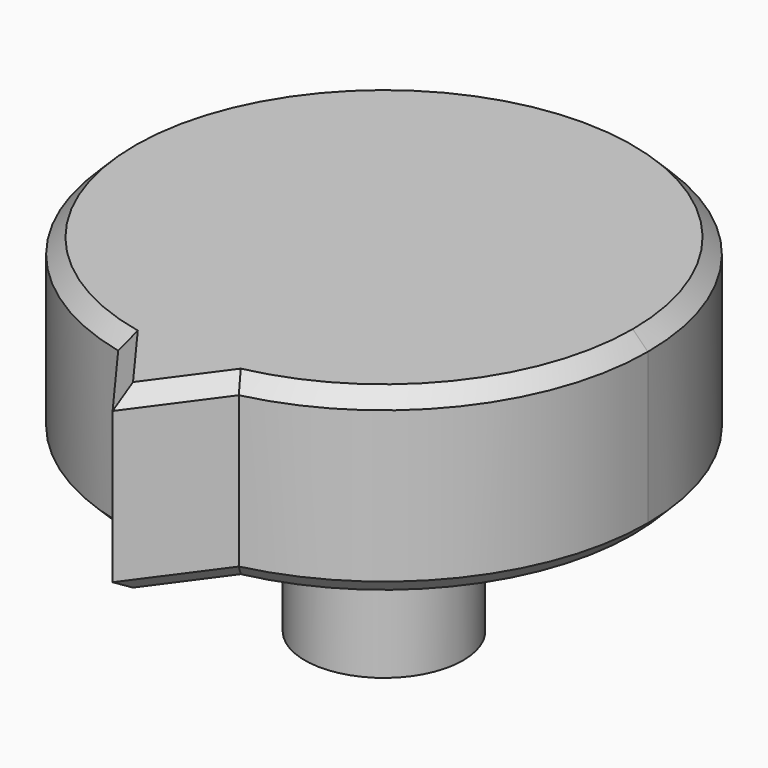
from build123d import *

# Parameters (mm, degrees)
F0_R     = 5.25
F1_DEPTH = 12
F2_DEPTH = 11
F3_DEPTH = 12
F4_SIZE  = 1
F5_SIZE  = 1


with BuildPart() as f1:
    # F0 (on Top) → F1 (new body)
    with BuildSketch(Plane.XY):
        with BuildLine():
            ThreePointArc((4, -17.036725), (13.715867, -10.868533), (17.5, 0))
            ThreePointArc((17.5, 0), (-10.868533, 13.715867), (-4, -17.036725))
            ThreePointArc((-4, -17.036725), (0, -17.5), (4, -17.036725))
        make_face()
        Circle(F0_R, mode=Mode.SUBTRACT)
        Circle(F0_R)
        with BuildLine():
            ThreePointArc((2.727178, 1.25), (2.931001, 0.639713), (3, 0))
            ThreePointArc((3, 0), (-0.639713, -2.931001), (-2.727178, 1.25))
            ThreePointArc((-2.727178, 1.25), (0, 3), (2.727178, 1.25))
        make_face(mode=Mode.SUBTRACT)
        with BuildLine():
            ThreePointArc((-2.727178, 1.25), (-0.639713, -2.931001), (3, 0))
            ThreePointArc((3, 0), (2.931001, 0.639713), (2.727178, 1.25))
            Line((2.727178, 1.25), (-2.727178, 1.25))
        make_face()
        with BuildLine():
            Line((-2.727178, 1.25), (2.727178, 1.25))
            ThreePointArc((2.727178, 1.25), (0, 3), (-2.727178, 1.25))
        make_face()
    extrude(amount=F1_DEPTH)

    # F0 (on Top) → F2 (join)
    with BuildSketch(Plane.XY):
        Circle(F0_R)
        with BuildLine():
            ThreePointArc((2.727178, 1.25), (2.931001, 0.639713), (3, 0))
            ThreePointArc((3, 0), (-0.639713, -2.931001), (-2.727178, 1.25))
            ThreePointArc((-2.727178, 1.25), (0, 3), (2.727178, 1.25))
        make_face(mode=Mode.SUBTRACT)
        with BuildLine():
            Line((-2.727178, 1.25), (2.727178, 1.25))
            ThreePointArc((2.727178, 1.25), (0, 3), (-2.727178, 1.25))
        make_face()
    extrude(amount=-F2_DEPTH)

    # F0 (on Top) → F3 (join)
    with BuildSketch(Plane.XY):
        with BuildLine():
            ThreePointArc((4, -17.036725), (0, -17.5), (-4, -17.036725))
            Line((-4, -17.036725), (0, -22.5))
            Line((0, -22.5), (4, -17.036725))
        make_face()
    extrude(amount=F3_DEPTH)

    # F4
    f4_edges = [f1.edges().sort_by_distance(p)[0] for p in [
        (0, 17.5, 0),
        (-2, -19.768363, 0),
        (2, -19.768363, 0),
        (-5.25, 0, 0),
    ]]
    chamfer(f4_edges, length=F4_SIZE)

    # F5
    f5_edges = [f1.edges().sort_by_distance(p)[0] for p in [
        (0, 17.5, 12),
        (-2, -19.768363, 12),
        (2, -19.768363, 12),
    ]]
    chamfer(f5_edges, length=F5_SIZE)


solid = f1.part
